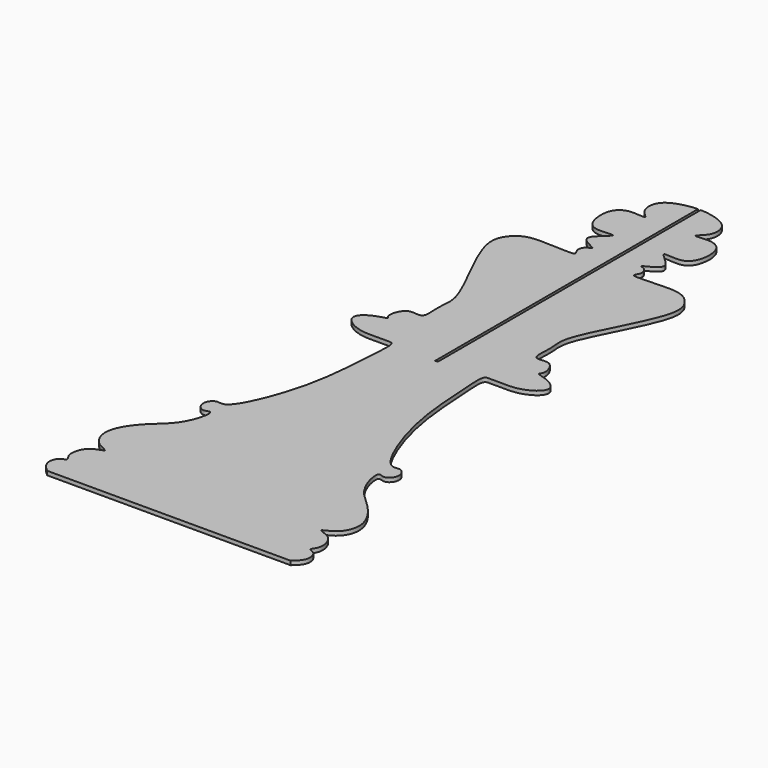
from build123d import *

# Parameters (mm, degrees)
F0_W     = 1
F0_H     = 249.9898374081
F1_DEPTH = 3


with BuildPart() as f1:
    # F0 (on Top) → F1 (new body)
    with BuildSketch(Plane.XY):
        with BuildLine():
            add(Edge.make_bspline(
                [(90.9894779325, -249.9898374081), (93.5423084812, -247.6994433289), (98.7261095267, -243.0594878918), (96.3717963405, -233.002246845), (88.9209162181, -232.1425823387), (95.5797614962, -226.3473827392), (91.5836794418, -211.0809255461), (76.5998108247, -209.1742101838), (90.4931932063, -205.4560381133), (98.4040190951, -188.7616252338), (84.8804606225, -168.4829575198), (70.7689072457, -158.3322873851), (62.8379831471, -143.2413384436), (61.557023586, -130.431832811), (67.6542333179, -134.5346761668), (72.8062443375, -130.5436162337), (73.8025544125, -123.982922157), (68.6727398931, -118.4366341751), (58.7058329409, -123.9708810166), (36.3025994821, -69.651977773), (35.164596349, -20.9878259104), (32.5521242658, 2.8394716537), (39.0369635764, 1.9394730546), (45.0657788443, 2.3218964827), (59.2994622567, 1.3707494807), (72.5719191699, 8.7342849114), (73.7246470696, 16.9759574494), (63.7074459018, 23.0474340322), (54.8274264315, 24.486493145), (59.6455092177, 27.4410399071), (54.5159396801, 43.0468686734), (39.3539196624, 35.8742461569), (42.9989626849, 56.1690837908), (36.9830458164, 70.8756444867), (75.3117804583, 132.1733387746), (66.5967353794, 150.5007923418), (54.0696200833, 159.4409074932), (17.0505556383, 153.4254633293), (25.2609582787, 161.1783845586), (22.1365981425, 167.5806007909), (14.7019530635, 168.4961773878), (37.8144356801, 175.4808323626), (10.6566023155, 191.8814352096), (33.8169514641, 186.1145341709), (41.0946330208, 196.9381785014), (40.9718122924, 213.3158447979), (30.880649311, 219.9158241613), (14.5059824129, 216.463817929), (26.4591252681, 223.9192586975), (25.9221908143, 240.1832175197), (8.8626047614, 244.964838391), (3.0191772027, 245.4614464803), (1, 245.419665973)],
                knots=[0, 0, 0, 0, 0.0180780853, 0.0347531213, 0.0470641149, 0.0606824905, 0.082352678, 0.0994547179, 0.1158616148, 0.1392633154, 0.1663959645, 0.1906043851, 0.2147209883, 0.2318230344, 0.2436723223, 0.2572198202, 0.2714307317, 0.2853999587, 0.2999146289, 0.3409079292, 0.3840879897, 0.4084447206, 0.419714688, 0.4339027925, 0.4556593293, 0.4773062065, 0.491496902, 0.5109410664, 0.5257336488, 0.5355257348, 0.5558123934, 0.5739340212, 0.5952671467, 0.6191769312, 0.6663842356, 0.689853768, 0.7124976679, 0.7436344098, 0.7559670404, 0.7705719679, 0.7806682913, 0.8011642023, 0.8234239266, 0.8434337495, 0.8633636557, 0.8853927856, 0.9047200707, 0.9233275392, 0.9391772054, 0.9603162416, 0.9836366812, 0.9976573166, 0.9976573166, 0.9976573166, 0.9976573166], degree=3))
            Line((1, 245.419665973), (1, 0))
            Line((1, 0), (1, -249.9898374081))
            Line((1, -249.9898374081), (90.9894779325, -249.9898374081))
        make_face()
        with BuildLine():
            Line((-1, 0), (-1, 245.419665973))
            add(Edge.make_bspline(
                [(-90.9894779325, -249.9898374081), (-93.5423084812, -247.6994433289), (-98.7261095267, -243.0594878918), (-96.3717963405, -233.002246845), (-88.9209162181, -232.1425823387), (-95.5797614962, -226.3473827392), (-91.5836794418, -211.0809255461), (-76.5998108247, -209.1742101838), (-90.4931932063, -205.4560381133), (-98.4040190951, -188.7616252338), (-84.8804606225, -168.4829575198), (-70.7689072457, -158.3322873851), (-62.8379831471, -143.2413384436), (-61.557023586, -130.431832811), (-67.6542333179, -134.5346761668), (-72.8062443375, -130.5436162337), (-73.8025544125, -123.982922157), (-68.6727398931, -118.4366341751), (-58.7058329409, -123.9708810166), (-36.3025994821, -69.651977773), (-35.164596349, -20.9878259104), (-32.5521242658, 2.8394716537), (-39.0369635764, 1.9394730546), (-45.0657788443, 2.3218964827), (-59.2994622567, 1.3707494807), (-72.5719191699, 8.7342849114), (-73.7246470696, 16.9759574494), (-63.7074459018, 23.0474340322), (-54.8274264315, 24.486493145), (-59.6455092177, 27.4410399071), (-54.5159396801, 43.0468686734), (-39.3539196624, 35.8742461569), (-42.9989626849, 56.1690837908), (-36.9830458164, 70.8756444867), (-75.3117804583, 132.1733387746), (-66.5967353794, 150.5007923418), (-54.0696200833, 159.4409074932), (-17.0505556383, 153.4254633293), (-25.2609582787, 161.1783845586), (-22.1365981425, 167.5806007909), (-14.7019530635, 168.4961773878), (-37.8144356801, 175.4808323626), (-10.6566023155, 191.8814352096), (-33.8169514641, 186.1145341709), (-41.0946330208, 196.9381785014), (-40.9718122924, 213.3158447979), (-30.880649311, 219.9158241613), (-14.5059824129, 216.463817929), (-26.4591252681, 223.9192586975), (-25.9221908143, 240.1832175197), (-8.8626047614, 244.964838391), (-3.0191772027, 245.4614464803), (-1, 245.419665973)],
                knots=[0, 0, 0, 0, 0.0180780853, 0.0347531213, 0.0470641149, 0.0606824905, 0.082352678, 0.0994547179, 0.1158616148, 0.1392633154, 0.1663959645, 0.1906043851, 0.2147209883, 0.2318230344, 0.2436723223, 0.2572198202, 0.2714307317, 0.2853999587, 0.2999146289, 0.3409079292, 0.3840879897, 0.4084447206, 0.419714688, 0.4339027925, 0.4556593293, 0.4773062065, 0.491496902, 0.5109410664, 0.5257336488, 0.5355257348, 0.5558123934, 0.5739340212, 0.5952671467, 0.6191769312, 0.6663842356, 0.689853768, 0.7124976679, 0.7436344098, 0.7559670404, 0.7705719679, 0.7806682913, 0.8011642023, 0.8234239266, 0.8434337495, 0.8633636557, 0.8853927856, 0.9047200707, 0.9233275392, 0.9391772054, 0.9603162416, 0.9836366812, 0.9976573166, 0.9976573166, 0.9976573166, 0.9976573166], degree=3))
            Line((-90.9894779325, -249.9898374081), (-1, -249.9898374081))
            Line((-1, -249.9898374081), (-1, 0))
        make_face()
        with Locations((-0.5, -124.994918704)):
            Rectangle(F0_W, F0_H)
        with Locations((0.5, -124.994918704)):
            Rectangle(F0_W, F0_H)
    extrude(amount=F1_DEPTH)


solid = f1.part
